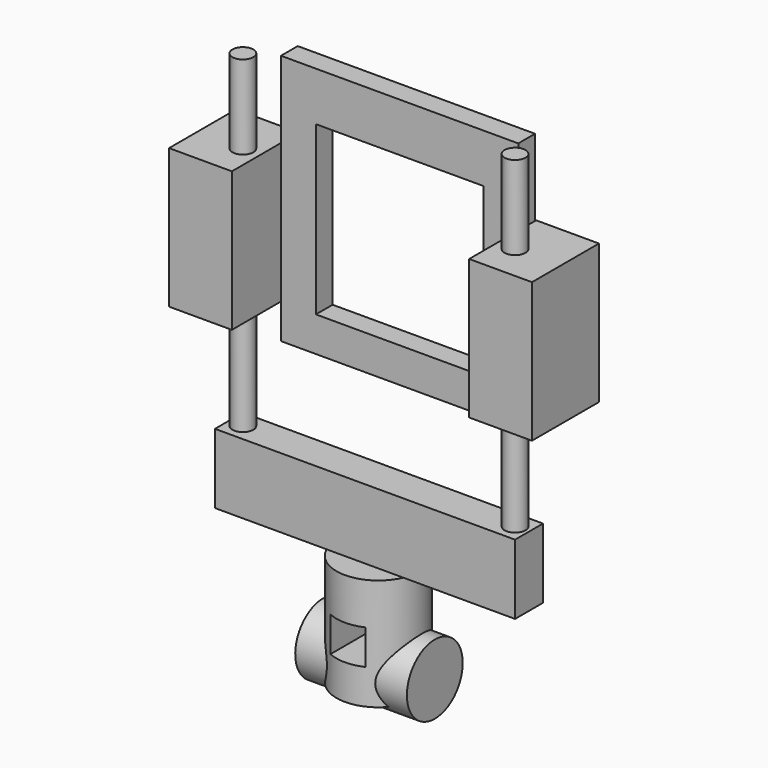
from build123d import *

# Parameters (mm, degrees)
CYLINDER004_R             = 7.5
CYLINDER004_DEPTH         = 240
CYLINDER005_R             = 7.5
CYLINDER005_DEPTH         = 240
BOX030_W                  = 45
BOX030_H                  = 60
BOX030_DEPTH              = 100
BOX031_W                  = 45
BOX031_H                  = 60
BOX031_DEPTH              = 100
BOX032_W                  = 120
BOX032_H                  = 30
BOX032_DEPTH              = 120
BOX028_W                  = 170
BOX028_H                  = 15
BOX028_DEPTH              = 180
BOX033_W                  = 25
BOX033_H                  = 25
BOX033_DEPTH              = 100
CYLINDER006_R             = 30
CYLINDER006_DEPTH         = 80
CYLINDER007_R             = 25
CYLINDER007_DEPTH         = 80
BOX029_W                  = 215
BOX029_H                  = 25
BOX029_DEPTH              = 50
FUSION005_PLACEMENT_ANGLE = 180


with BuildPart() as cylinder004:
    # Cylinder004 → Cylinder004 (new body)
    with BuildSketch(Plane(origin=(-12.5, 33.5, -55), x_dir=(1, 0, 0), z_dir=(0, 0, 1))):
        Circle(CYLINDER004_R)
    extrude(amount=CYLINDER004_DEPTH)


with BuildPart() as cylinder005:
    # Cylinder005 → Cylinder005 (new body)
    with BuildSketch(Plane(origin=(182.5, 33.5, -55), x_dir=(1, 0, 0), z_dir=(0, 0, 1))):
        Circle(CYLINDER005_R)
    extrude(amount=CYLINDER005_DEPTH)


with BuildPart() as cube025:
    # Box030 → Box030 (new body)
    with BuildSketch(Plane(origin=(-45, -1, 25), x_dir=(1, 0, 0), z_dir=(0, 0, 1))):
        with Locations((22.5, 30)):
            Rectangle(BOX030_W, BOX030_H)
    extrude(amount=BOX030_DEPTH)


with BuildPart() as cube026:
    # Box031 → Box031 (new body)
    with BuildSketch(Plane(origin=(170, -1, 25), x_dir=(1, 0, 0), z_dir=(0, 0, 1))):
        with Locations((22.5, 30)):
            Rectangle(BOX031_W, BOX031_H)
    extrude(amount=BOX031_DEPTH)


with BuildPart() as cube027:
    # Box032 → Box032 (new body)
    with BuildSketch(Plane(origin=(25, -1, 25), x_dir=(1, 0, 0), z_dir=(0, 0, 1))):
        with Locations((60, 15)):
            Rectangle(BOX032_W, BOX032_H)
    extrude(amount=BOX032_DEPTH)


with BuildPart() as cut008:
    # Box028 → Box028 (new body)
    with BuildSketch(Plane.XY):
        with Locations((85, 7.5)):
            Rectangle(BOX028_W, BOX028_H)
    extrude(amount=BOX028_DEPTH)

    # Cut008: cut Cube027
    add(cube027.part, mode=Mode.SUBTRACT)


with BuildPart() as cube028:
    # Box033 → Box033 (new body)
    with BuildSketch(Plane(origin=(72.5, 76.5, -155), x_dir=(1, 0, 0), z_dir=(0, -1, 0))):
        with Locations((12.5, 12.5)):
            Rectangle(BOX033_W, BOX033_H)
    extrude(amount=BOX033_DEPTH)


with BuildPart() as cylinder006:
    # Cylinder006 → Cylinder006 (new body)
    with BuildSketch(Plane(origin=(85, 34, -180), x_dir=(1, 0, 0), z_dir=(0, 0, 1))):
        Circle(CYLINDER006_R)
    extrude(amount=CYLINDER006_DEPTH)


with BuildPart() as cut009:
    # Cylinder007 → Cylinder007 (new body)
    with BuildSketch(Plane(origin=(45, 33.5, -165), x_dir=(0, 0, -1), z_dir=(1, 0, 0))):
        Circle(CYLINDER007_R)
    extrude(amount=CYLINDER007_DEPTH)

    # Fusion004: union Cylinder006
    add(cylinder006.part)

    # Cut009: cut Cube028
    add(cube028.part, mode=Mode.SUBTRACT)


with BuildPart() as standard001:
    # Box029 → Box029 (new body)
    with BuildSketch(Plane(origin=(-22.5, 21, -100), x_dir=(1, 0, 0), z_dir=(0, 0, 1))):
        with Locations((107.5, 12.5)):
            Rectangle(BOX029_W, BOX029_H)
    extrude(amount=BOX029_DEPTH)

    # Fusion005: union Cylinder004, Cylinder005, Cube025, Cube026, Cut008, Cut009
    add(cylinder004.part)
    add(cylinder005.part)
    add(cube025.part)
    add(cube026.part)
    add(cut008.part)
    add(cut009.part)


with BuildPart() as standard001_1:
    # Fusion005 placement: moved
    add(standard001.part.moved(Location((170, 407, 0))).rotate(Axis((170, 407, 0), (0, 0, 1)), FUSION005_PLACEMENT_ANGLE))


solid = standard001_1.part
